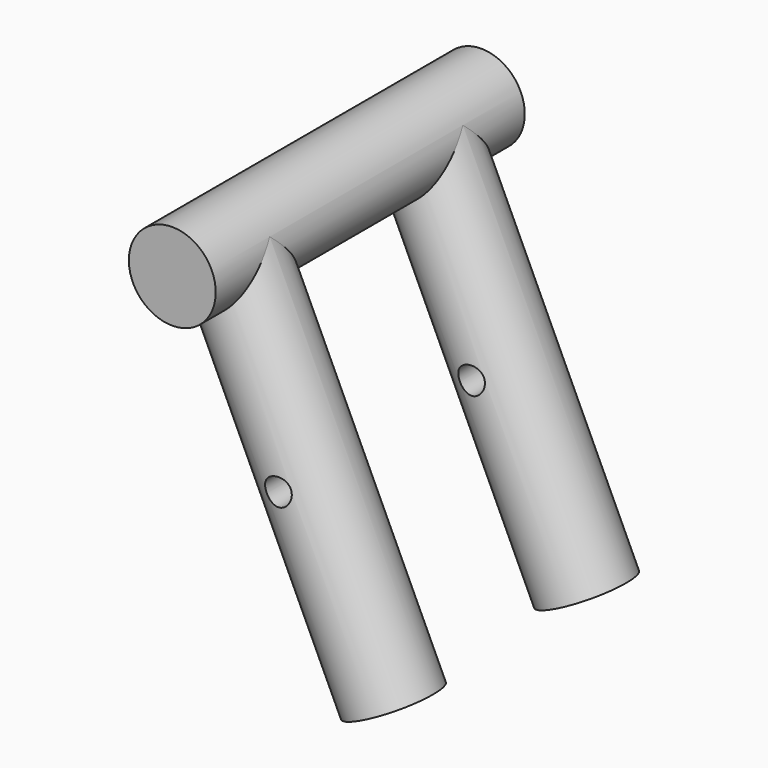
from build123d import *

# Parameters (mm, degrees)
SKETCH005_AS_DRAWN_R                                = 2.75
EXTRUDE_SKETCH005001_DEPTH                          = 90
EXTRUDE_SKETCH005001_ONTO_SKETCH005_ROLL_ANGLE      = 90
EXTRUDE_SKETCH005001_ONTO_SKETCH005_PLACEMENT_ANGLE = 180
CYLINDER_R                                          = 9
CYLINDER_DEPTH                                      = 80
CYLINDER001_R                                       = 9
CYLINDER001_DEPTH                                   = 80
CYLINDER001_ROLL_ANGLE                              = 90
CLONE005_PLACEMENT_ANGLE                            = 25


with BuildPart() as clone_of_sketch005_extrude001:
    # Sketch005 as drawn → Extrude_Sketch005001 (new)
    with BuildSketch(Plane.XY):
        with Locations((-90, 54)):
            Circle(SKETCH005_AS_DRAWN_R)
    extrude(amount=-EXTRUDE_SKETCH005001_DEPTH)


with BuildPart() as clone_of_sketch005_extrude001_1:
    # Extrude_Sketch005001 onto Sketch005 roll: moved
    add(clone_of_sketch005_extrude001.part.rotate(Axis((0, 0, 0), (1, 0, 0)), EXTRUDE_SKETCH005001_ONTO_SKETCH005_ROLL_ANGLE))


with BuildPart() as clone_of_sketch005_extrude001_2:
    # Extrude_Sketch005001 onto Sketch005 placement: moved
    add(clone_of_sketch005_extrude001_1.part.moved(Location((0, 111, 0))).rotate(Axis((0, 111, 0), (0, 0, 1)), EXTRUDE_SKETCH005001_ONTO_SKETCH005_PLACEMENT_ANGLE))


with BuildPart() as cilindro:
    # Cylinder → Cylinder (new body)
    with BuildSketch(Plane(origin=(76.968275, 45, 32), x_dir=(1, 0, 0), z_dir=(0, 0, 1))):
        Circle(CYLINDER_R)
    extrude(amount=CYLINDER_DEPTH)


with BuildPart() as clone_of_cilindro:
    # Clone003 base: copy of Cilindro
    add(cilindro.part)


with BuildPart() as clone_of_cilindro_1:
    # Clone003 placement: moved
    add(clone_of_cilindro.part.moved(Location((0, 50, 0))))


with BuildPart() as clone_of_cut003:
    # Cylinder001 → Cylinder001 (new body)
    with BuildSketch(Plane.XY):
        Circle(CYLINDER001_R)
    extrude(amount=CYLINDER001_DEPTH)


with BuildPart() as clone_of_cut003_1:
    # Cylinder001 roll: moved
    add(clone_of_cut003.part.rotate(Axis((0, 0, 0), (1, 0, 0)), CYLINDER001_ROLL_ANGLE))


with BuildPart() as clone_of_cut003_2:
    # Cylinder001 placement: moved
    add(clone_of_cut003_1.part.moved(Location((76.9683, 110, 112))))

    # Fusion: union Clone of Cilindro, Cilindro
    add(clone_of_cilindro_1.part)
    add(cilindro.part)


with BuildPart() as clone_of_cut003_3:
    # Fusion placement: moved
    add(clone_of_cut003_2.part.moved(Location((13.0317, 0, -18))))

    # Cut003: cut Clone of Sketch005_Extrude001
    add(clone_of_sketch005_extrude001_2.part, mode=Mode.SUBTRACT)


with BuildPart() as clone_of_cut003_4:
    # Clone005 placement: moved
    add(clone_of_cut003_3.part.moved(Location((31, 0, -33))).rotate(Axis((31, 0, -33), (0, -1, 0)), CLONE005_PLACEMENT_ANGLE))


solid = clone_of_cut003_4.part
